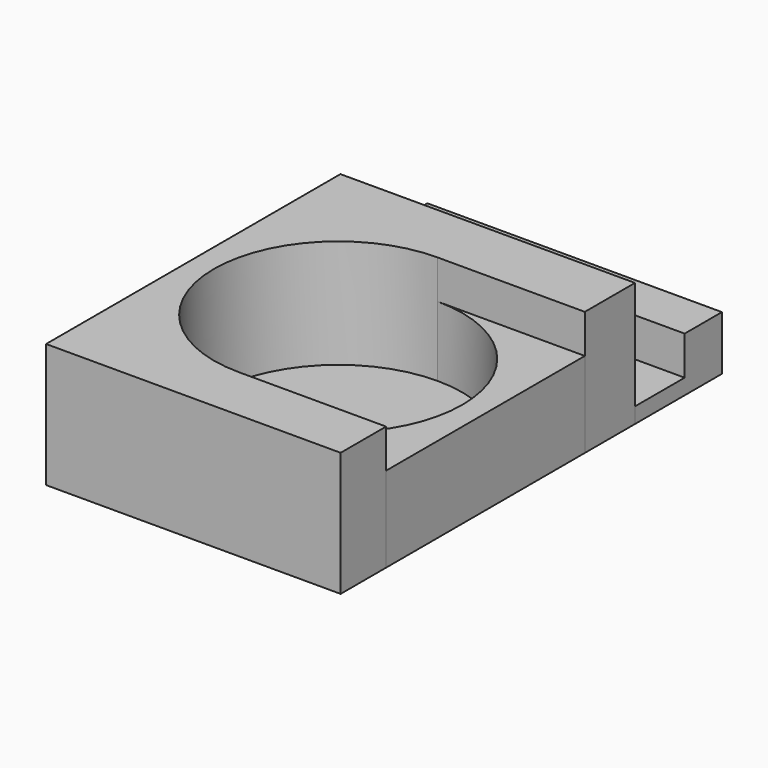
from build123d import *

# Parameters (mm, degrees)
F0_W     = 18.968976
F0_H     = 4
F1_DEPTH = 1
F2_DEPTH = 5.5
F3_DEPTH = 8
F0_H_2   = 3
F4_DEPTH = 3.5


with BuildPart() as f1:
    # F0 (on Top) → F1 (new body)
    with BuildSketch(Plane.XY):
        with BuildLine():
            Line((0, -11.688868), (0, 4.311132))
            ThreePointArc((0, 4.311132), (-8, -3.688868), (0, -11.688868))
        make_face()
        with BuildLine():
            ThreePointArc((8, -3.688868), (5.656854, 1.967986), (0, 4.311132))
            Line((0, 4.311132), (0, -11.688868))
            ThreePointArc((0, -11.688868), (5.656854, -9.345722), (8, -3.688868))
        make_face()
        with Locations((0, 10.346789)):
            Rectangle(F0_W, F0_H)
    extrude(amount=F1_DEPTH)

    # F0 (on Top) → F2 (join)
    with BuildSketch(Plane.XY):
        with BuildLine():
            Line((9.484488, -11.688868), (9.484488, 4.311132))
            Line((9.484488, 4.311132), (0, 4.311132))
            ThreePointArc((0, 4.311132), (5.656854, 1.967986), (8, -3.688868))
            ThreePointArc((8, -3.688868), (5.656854, -9.345722), (0, -11.688868))
            Line((0, -11.688868), (9.484488, -11.688868))
        make_face()
    extrude(amount=F2_DEPTH)

    # F0 (on Top) → F4 (join)
    with BuildSketch(Plane.XY):
        with Locations((0, 13.846789)):
            Rectangle(F0_W, F0_H_2)
    extrude(amount=F4_DEPTH)


with BuildPart() as f3:
    # F0 (on Top) → F3 (new body)
    with BuildSketch(Plane.XY):
        with BuildLine():
            Line((9.484488, 4.311132), (9.484488, 8.346789))
            Line((9.484488, 8.346789), (-9.484488, 8.346789))
            Line((-9.484488, 8.346789), (-9.484488, -15.346789))
            Line((-9.484488, -15.346789), (9.484488, -15.346789))
            Line((9.484488, -15.346789), (9.484488, -11.688868))
            Line((9.484488, -11.688868), (0, -11.688868))
            ThreePointArc((0, -11.688868), (-8, -3.688868), (0, 4.311132))
            Line((0, 4.311132), (9.484488, 4.311132))
        make_face()
    extrude(amount=F3_DEPTH)


solid = Compound([f1.part, f3.part])
